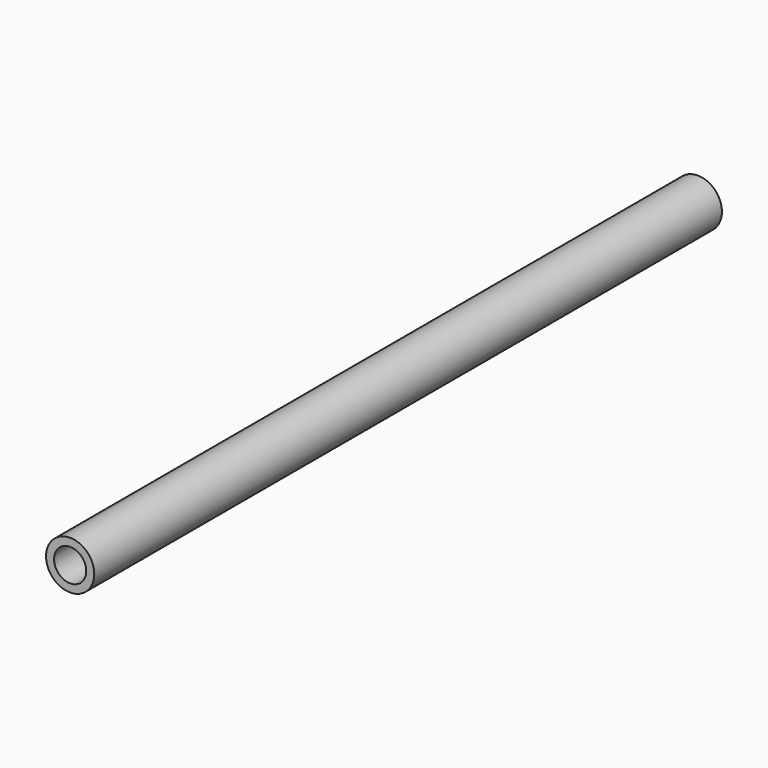
from build123d import *

# Parameters (mm, degrees)
F0_R          = 4.7625
F1_DEPTH      = 78.74
F1_DEPTH_BACK = 76.2
F2_R          = 3.175
F3_DEPTH      = 255.016


with BuildPart() as f1:
    # F0 (on Front) → F1 (new body, two sides)
    with BuildSketch(Plane.XZ) as f1_sk:
        Circle(F0_R)
    extrude(amount=F1_DEPTH)
    extrude(f1_sk.sketch, amount=-F1_DEPTH_BACK)

    # F2 (on face) → F3 (cut)
    with BuildSketch(Plane.XZ.offset(78.74)):
        Circle(F2_R)
    extrude(amount=-F3_DEPTH, mode=Mode.SUBTRACT)


solid = f1.part
